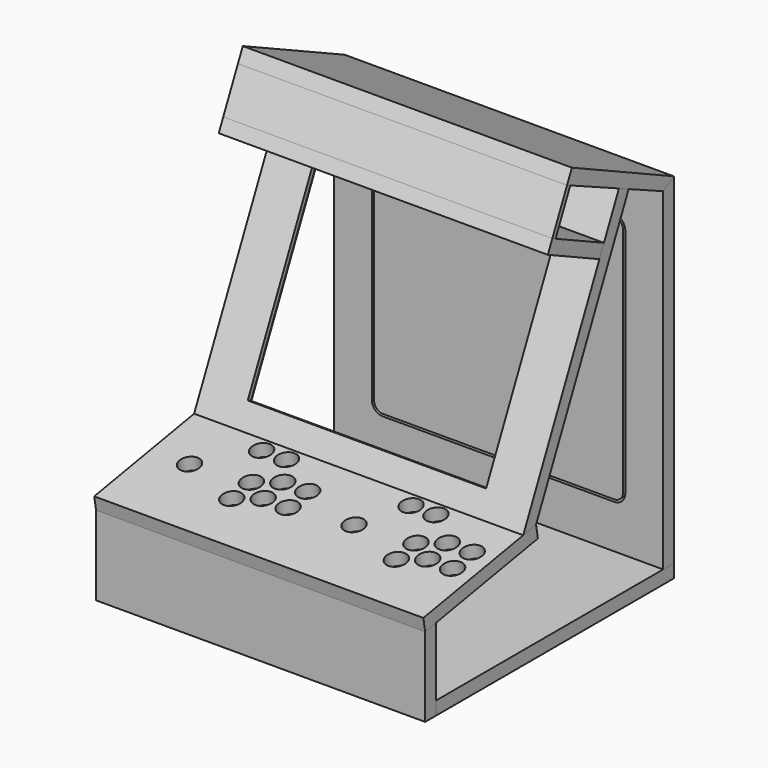
from build123d import *

# Parameters (mm, degrees)
F1_DEPTH  = 469.9
F2_DEPTH  = 469.9
F3_DEPTH  = 469.9
F4_DEPTH  = 469.9
F5_DEPTH  = 469.9
F6_DEPTH  = 469.9
F7_DEPTH  = 469.9
F8_DEPTH  = 469.9
F9_R      = 14.2875
F10_DEPTH = 19.05
F11_W     = 340.36
F11_H     = 273.05
F12_DEPTH = 19.05
F14_DEPTH = 19.05
F15_W     = 356.235
F15_H     = 285.75
F15_W_2   = 340.36
F15_H_2   = 273.05
F16_DEPTH = 12.7


with BuildPart() as f1:
    # F0 (on Right) → F1 (new body)
    with BuildSketch(Plane.YZ):
        Polygon((447.04, 19.05), (447.04, 505.46), (427.99, 494.4614773719), (427.99, 19.05), align=None)
    extrude(amount=F1_DEPTH)

    # F13 (on face) → F14 (cut)
    with BuildSketch(Plane(origin=(0, 447.04, 0), x_dir=(-1, 0, 0), z_dir=(0, 1, 0))):
        with BuildLine():
            Line((-400.05, 81.28), (-69.85, 81.28))
            ThreePointArc((-69.85, 81.28), (-58.6246798487, 85.9296798487), (-53.975, 97.155))
            Line((-53.975, 97.155), (-53.975, 427.355))
            ThreePointArc((-53.975, 427.355), (-58.6246798487, 438.5803201513), (-69.85, 443.23))
            Line((-69.85, 443.23), (-400.05, 443.23))
            ThreePointArc((-400.05, 443.23), (-411.2753201513, 438.5803201513), (-415.925, 427.355))
            Line((-415.925, 427.355), (-415.925, 97.155))
            ThreePointArc((-415.925, 97.155), (-411.2753201513, 85.9296798487), (-400.05, 81.28))
        make_face()
        with BuildLine():
            Line((-69.85, 84.455), (-400.05, 84.455))
            ThreePointArc((-400.05, 84.455), (-409.0302561211, 88.1747438789), (-412.75, 97.155))
            Line((-412.75, 97.155), (-412.75, 427.355))
            ThreePointArc((-412.75, 427.355), (-409.0302561211, 436.3352561211), (-400.05, 440.055))
            Line((-400.05, 440.055), (-69.85, 440.055))
            ThreePointArc((-69.85, 440.055), (-60.8697438789, 436.3352561211), (-57.15, 427.355))
            Line((-57.15, 427.355), (-57.15, 97.155))
            ThreePointArc((-57.15, 97.155), (-60.8697438789, 88.1747438789), (-69.85, 84.455))
        make_face(mode=Mode.SUBTRACT)
    extrude(amount=-F14_DEPTH, mode=Mode.SUBTRACT)


with BuildPart() as f2:
    # F0 (on Right) → F2 (new body)
    with BuildSketch(Plane.YZ):
        Polygon((427.99, 494.4614773719), (447.04, 505.46), (265.1802794532, 590.2625804009), (256.5248281929, 571.700905273), (262.3150132288, 569.0926171005), (349.1677887675, 529.9682945134), (366.5368556977, 522.1441003712), align=None)
    extrude(amount=F2_DEPTH)


with BuildPart() as f3:
    # F0 (on Right) → F3 (new body)
    with BuildSketch(Plane.YZ):
        Polygon((447.04, 0), (447.04, 19.05), (427.99, 19.05), (22.3579977846, 19.05), (22.3579977846, 0), align=None)
    extrude(amount=F3_DEPTH)


with BuildPart() as f4:
    # F0 (on Right) → F4 (new body)
    with BuildSketch(Plane.YZ):
        Polygon((22.3579977846, 0), (22.3579977846, 19.05), (22.3579977846, 116.6784412876), (3.3079977846, 113.3194123051), (3.3079977846, 0), align=None)
    extrude(amount=F4_DEPTH)


with BuildPart() as f5:
    # F0 (on Right) → F5 (new body)
    with BuildSketch(Plane.YZ):
        Polygon((204.4972870801, 148.7945122375), (201.1892892955, 167.5550999324), (178.2888026757, 163.5171262699), (0, 132.08), (3.3079977846, 113.3194123051), (22.3579977846, 116.6784412876), align=None)
    extrude(amount=F5_DEPTH)

    # F9 (on face) → F10 (cut)
    with BuildSketch(Plane(origin=(0, -22.5870102652, 128.0973006767), x_dir=(1, 0, 0), z_dir=(0, -0.1736481777, 0.984807753))):
        with Locations((138.4316366414, 132.0669304948)):
            Circle(F9_R)
        with Locations((138.4316366414, 96.5069304948)):
            Circle(F9_R)
        with Locations((169.2275, 114.2869304948)):
            Circle(F9_R)
        with Locations((169.2275, 149.8469304948)):
            Circle(F9_R)
        with Locations((204.7875, 149.8469304948)):
            Circle(F9_R)
        with Locations((204.7875, 114.2869304948)):
            Circle(F9_R)
        with Locations((110.49, 186.0419304948)):
            Circle(F9_R)
        with Locations((146.05, 186.0419304948)):
            Circle(F9_R)
        with Locations((55.5625, 125.0819304948)):
            Circle(F9_R)
        with Locations((323.85, 186.0419304948)):
            Circle(F9_R)
        with Locations((359.41, 186.0419304948)):
            Circle(F9_R)
        with Locations((290.5125, 125.0819304948)):
            Circle(F9_R)
        with Locations((373.3816366414, 96.5069304948)):
            Circle(F9_R)
        with Locations((373.3816366414, 132.0669304948)):
            Circle(F9_R)
        with Locations((404.1775, 114.2869304948)):
            Circle(F9_R)
        with Locations((404.1775, 149.8469304948)):
            Circle(F9_R)
        with Locations((439.7375, 149.8469304948)):
            Circle(F9_R)
        with Locations((439.7375, 114.2869304948)):
            Circle(F9_R)
    extrude(amount=-F10_DEPTH, mode=Mode.SUBTRACT)


with BuildPart() as f6:
    # F0 (on Right) → F6 (new body)
    with BuildSketch(Plane.YZ):
        Polygon((201.1892892955, 167.5550999324), (366.5368556977, 522.1441003712), (349.1677887675, 529.9682945134), (322.3740131095, 472.5088571882), (314.3231352233, 455.2436938451), (178.2888026757, 163.5171262699), align=None)
    extrude(amount=F6_DEPTH)

    # F11 (on face) → F12 (cut)
    with BuildSketch(Plane(origin=(0, 83.8146250238, -39.083401514), x_dir=(1, 0, 0), z_dir=(0, -0.906307787, 0.4226182617))):
        with Locations((234.95, 394.9949487269)):
            Rectangle(F11_W, F11_H)
    extrude(amount=-F12_DEPTH, mode=Mode.SUBTRACT)

    # F15 (on face) → F16 (cut)
    with BuildSketch(Plane(origin=(0, 101.0783092184, -47.1335896619), x_dir=(-1, 0, 0), z_dir=(0, 0.906307787, -0.4226182617))):
        with Locations((-234.95, 394.9949487269)):
            Rectangle(F15_W, F15_H)
        with Locations((-234.95, 394.9949487269)):
            Rectangle(F15_W_2, F15_H_2, mode=Mode.SUBTRACT)
    extrude(amount=-F16_DEPTH, mode=Mode.SUBTRACT)


with BuildPart() as f7:
    # F0 (on Right) → F7 (new body)
    with BuildSketch(Plane.YZ):
        Polygon((236.0481963942, 512.763246619), (230.2931419465, 515.446872581), (222.2422640604, 498.181709238), (314.3231352233, 455.2436938451), (322.3740131095, 472.5088571882), align=None)
    extrude(amount=F7_DEPTH)


with BuildPart() as f8:
    # F0 (on Right) → F8 (new body)
    with BuildSketch(Plane.YZ):
        Polygon((262.3150132288, 569.0926171005), (256.5248281929, 571.700905273), (230.2931419465, 515.446872581), (236.0481963942, 512.763246619), align=None)
    extrude(amount=F8_DEPTH)


solid = Compound([f1.part, f2.part, f3.part, f4.part, f5.part, f6.part, f7.part, f8.part])
